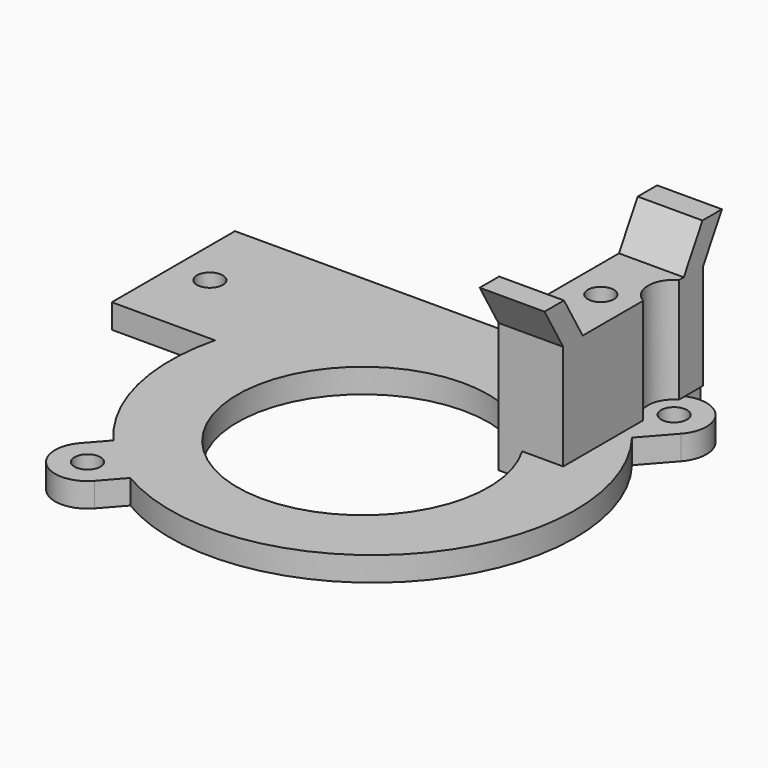
from build123d import *

# Parameters (mm, degrees)
SKETCH_R          = 15.5
SKETCH_R_2        = 1.6
PAD_DEPTH         = 3
PAD_FACE5_W       = 19
PAD_FACE5_H       = 3
PAD001_DEPTH      = 12
SKETCH001_W       = 8
SKETCH001_H       = 18.6
PAD002_DEPTH      = 13
PAD002_DEPTH_BACK = 3
PAD003_DEPTH      = 3
PAD004_DEPTH      = 8
SKETCH003_R       = 1.6
POCKET_DEPTH      = 16.001
SKETCH004_R       = 3.2
POCKET001_DEPTH   = 13
SKETCH005_R       = 3.2
POCKET002_DEPTH   = 9
SKETCH006_R       = 1.6
POCKET003_DEPTH   = 21.001


with BuildPart() as part:
    # Sketch → Pad (new body)
    with BuildSketch(Plane.XY):
        with BuildLine():
            Line((-25, 26.5), (-25, 7.5))
            Line((-25, 7.5), (-24.269322, 7.5))
            ThreePointArc((-24.269322, 7.5), (-24.300327, -4.373169), (-18.850224, -14.921604))
            Line((-20.997316, -17.351209), (-18.850224, -14.921604))
            ThreePointArc((-20.997316, -17.351209), (-20.648791, -22.997316), (-15.002684, -22.648791))
            Line((-15.002684, -22.648791), (-12.694657, -20.037077))
            ThreePointArc((-12.694657, -20.037077), (18.733227, -15.054945), (19.812278, 16.747086))
            Line((22.997316, 20.351209), (19.812278, 16.747086))
            ThreePointArc((22.997316, 20.351209), (22.648791, 25.997316), (17.002684, 25.648791))
            Line((17.002684, 25.648791), (13.978579, 22.226778))
            ThreePointArc((13.978579, 22.226778), (7.308575, 25.407838), (0, 26.5))
            Line((-25, 26.5), (0, 26.5))
        make_face()
        Circle(SKETCH_R, mode=Mode.SUBTRACT)
        with Locations((-18, -20)):
            Circle(SKETCH_R_2, mode=Mode.SUBTRACT)
        with Locations((20, 23)):
            Circle(SKETCH_R_2, mode=Mode.SUBTRACT)
    extrude(amount=PAD_DEPTH)

    # Pad Face5 → Pad001 (add)
    with BuildSketch(Plane(origin=(-25, 17, 1.5), x_dir=(0, 1, 0), z_dir=(-1, 0, 0))):
        Rectangle(PAD_FACE5_W, PAD_FACE5_H)
    extrude(amount=PAD001_DEPTH)

    # Sketch001 (on Face15 of Pad001) → Pad002 (join, two sides)
    with BuildSketch(Plane.XY.offset(3)) as pad002_sk:
        with Locations((14.4, 17.2)):
            Rectangle(SKETCH001_W, SKETCH001_H)
    extrude(amount=PAD002_DEPTH)
    extrude(pad002_sk.sketch, amount=-PAD002_DEPTH_BACK)

    # Pad002 Face17 → Pad003 (add)
    with BuildSketch(Plane(origin=(14.369541, 26.5, 8.05167), x_dir=(1, 0, 0), z_dir=(0, 1, 0))):
        Polygon((3.693968, 8.05167), (-3.969541, 8.05167), (-3.969541, -7.94833), (4.030459, -7.94833), (4.030459, 5.05167), (3.693968, 5.05167), align=None)
    extrude(amount=PAD003_DEPTH)

    # Sketch002 (on Face20 of Pad003) → Pad004 (join)
    with BuildSketch(Plane.YZ.offset(18.4)):
        Polygon((7.9, 16), (5.013249, 21), (8.013249, 21), (10.9, 16), align=None)
        Polygon((26.5, 16), (29.5, 16), (32.386751, 21), (29.386751, 21), align=None)
    extrude(amount=-PAD004_DEPTH)

    # Sketch003 (on Face26 of Pad004) → Pocket (cut, through all)
    with BuildSketch(Plane.XY.offset(16)):
        with Locations((14.4, 18.7)):
            Circle(SKETCH003_R)
    extrude(amount=-POCKET_DEPTH, mode=Mode.SUBTRACT)

    # Sketch004 (on Face28 of Pocket) → Pocket001 (cut)
    with BuildSketch(Plane.XY.offset(16)):
        with Locations((20, 23)):
            Circle(SKETCH004_R)
    extrude(amount=-POCKET001_DEPTH, mode=Mode.SUBTRACT)

    # Sketch005 (on Face26 of Pocket001) → Pocket002 (cut)
    with BuildSketch(Plane(origin=(0, 0, 0), x_dir=(1, 0, 0), z_dir=(0, 0, -1))):
        with Locations((14.4, -18.7)):
            Circle(SKETCH005_R)
    extrude(amount=-POCKET002_DEPTH, mode=Mode.SUBTRACT)

    # Sketch006 (on Face2 of Pocket002) → Pocket003 (cut, through all)
    with BuildSketch(Plane(origin=(0, 0, 0), x_dir=(1, 0, 0), z_dir=(0, 0, -1))):
        with Locations((-32.5, -17)):
            Circle(SKETCH006_R)
    extrude(amount=-POCKET003_DEPTH, mode=Mode.SUBTRACT)


solid = part.part
